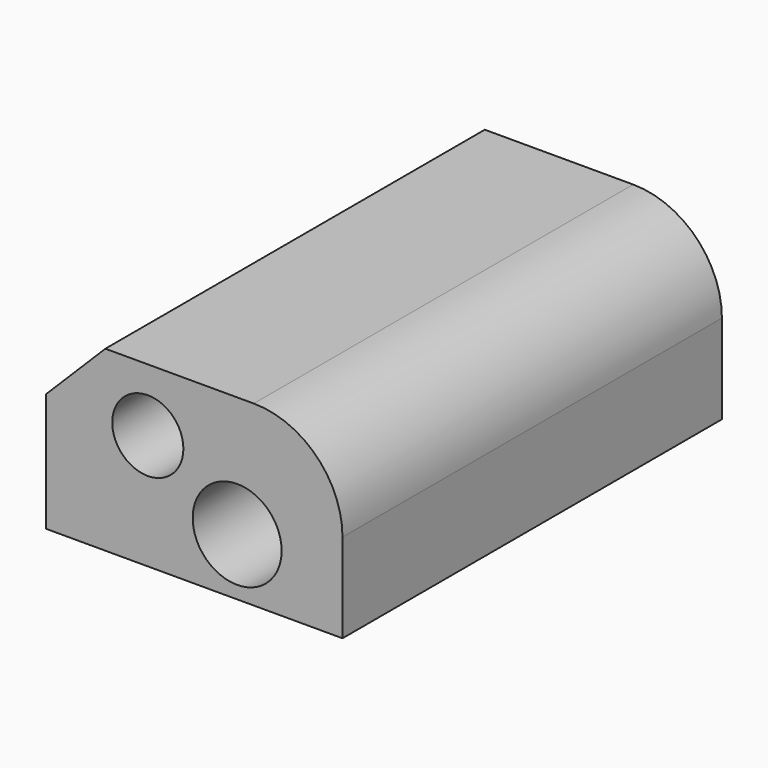
from build123d import *

# Parameters (mm, degrees)
F0_W     = 50
F0_H     = 80
F1_DEPTH = 30
F2_R     = 14.968124
F3_SIZE  = 10
F4_R     = 6
F4_R_2   = 7.5
F5_DEPTH = 80.8


with BuildPart() as f1:
    # F0 (on Top) → F1 (new body)
    with BuildSketch(Plane.XY):
        with Locations((25, -40)):
            Rectangle(F0_W, F0_H)
    extrude(amount=F1_DEPTH)

    # F2
    f2_edges = [f1.edges().sort_by_distance(p)[0] for p in [
        (50, -40, 30),
    ]]
    fillet(f2_edges, radius=F2_R)

    # F3
    f3_edges = [f1.edges().sort_by_distance(p)[0] for p in [
        (0, -40, 30),
    ]]
    chamfer(f3_edges, length=F3_SIZE)

    # F4 (on face) → F5 (cut)
    with BuildSketch(Plane.XZ.offset(80)):
        with Locations((17.158328, 19.422975)):
            Circle(F4_R)
        with Locations((32.230863, 9.653739)):
            Circle(F4_R_2)
    extrude(amount=-F5_DEPTH, mode=Mode.SUBTRACT)


solid = f1.part
